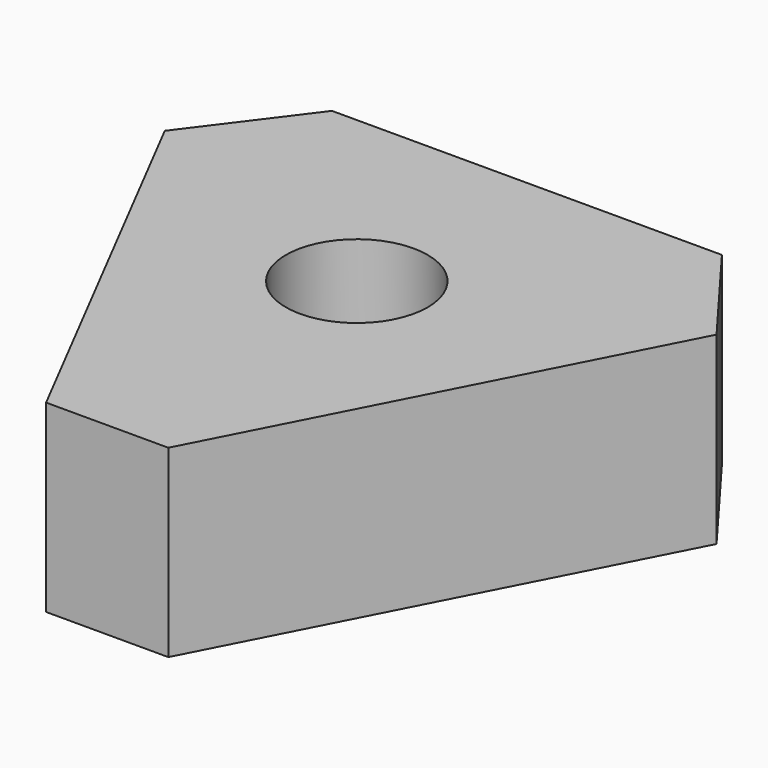
from build123d import *

# Parameters (mm, degrees)
SKETCH_R  = 5
PAD_DEPTH = 13


with BuildPart() as part:
    # Sketch → Pad (new body)
    with BuildSketch(Plane.XY):
        Polygon((-13.75, 15), (13.749989, 15), (19.455317, 7.392933), (4.310835, -22), (1.95122, -22), (-1.95122, -22), (-4.310835, -22), (-19.45531, 7.39292), align=None)
        Circle(SKETCH_R, mode=Mode.SUBTRACT)
    pad = extrude(amount=PAD_DEPTH)

    # Mirrored: Pad across Sketch V_Axis
    add(pad.mirror(Plane(origin=(0, 0, 0), x_dir=(0, 0, 1), z_dir=(1, 0, 0))))


solid = part.part
